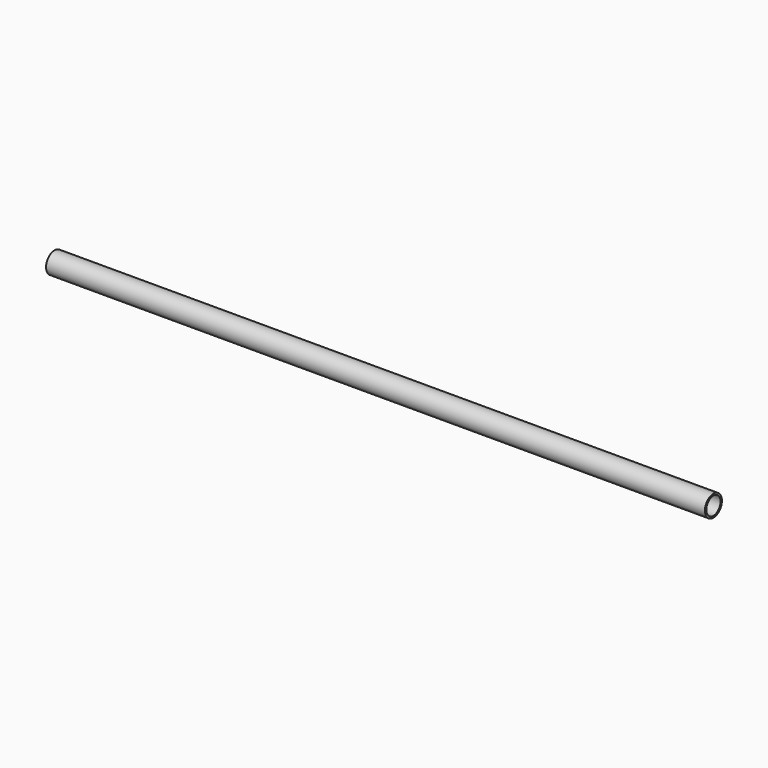
from build123d import *

# Parameters (mm, degrees)
F1_R   = 16.7
F1_R_2 = 13.932


with BuildPart() as f2:
    # F2: sweep along a path in F0
    with BuildLine(Plane.XZ) as f2_path:
        Line((0, 0), (1035, 0))
    # F1 (on Right) → F2 (sweep)
    with BuildSketch(Plane.YZ):
        Circle(F1_R)
        Circle(F1_R_2, mode=Mode.SUBTRACT)
    sweep(path=f2_path.line)


solid = f2.part
